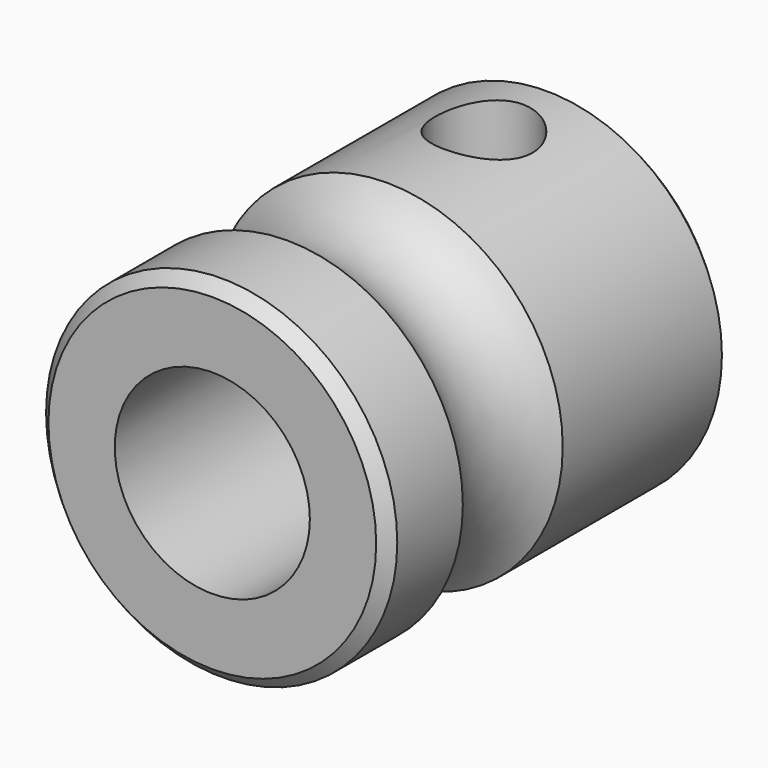
from build123d import *

# Parameters (mm, degrees)
F0_R     = 4.5
F0_R_2   = 2.5
F1_DEPTH = 5.5
F2_R     = 1.930882
F6_D     = 2.5
F6_DEPTH = 4.5
F7_SIZE  = 0.3


with BuildPart() as f1:
    # F0 (on Front) → F1 (new body, symmetric)
    with BuildSketch(Plane.XZ):
        Circle(F0_R)
        Circle(F0_R_2, mode=Mode.SUBTRACT)
    extrude(amount=F1_DEPTH, both=True)

    # F2 (on Right) → F3 (revolve, cut)
    with BuildSketch(Plane.YZ):
        with Locations((-1.5, 5.580882)):
            Circle(F2_R)
    revolve(axis=Axis((0, 0, 0), (0, -1, 0)), mode=Mode.SUBTRACT)

    # F6
    with Locations(Plane.XY.offset(4.5)):
        with Locations((0, 3.2)):
            Hole(F6_D / 2, depth=F6_DEPTH)

    # F7
    f7_edges = [f1.edges().sort_by_distance(p)[0] for p in [
        (-4.5, -5.5, 0),
        (-4.5, 5.5, 0),
    ]]
    chamfer(f7_edges, length=F7_SIZE)


solid = f1.part
